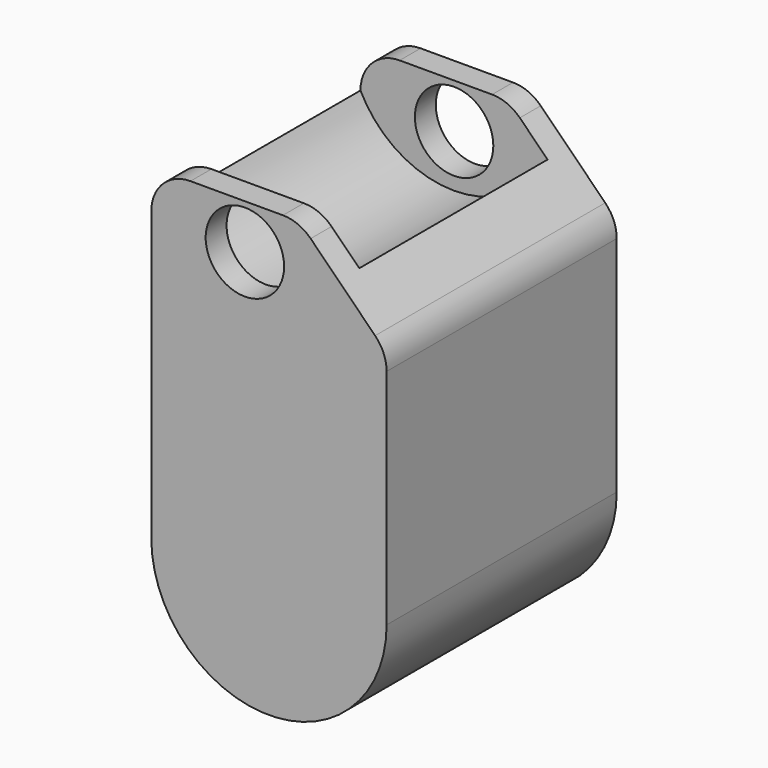
from build123d import *

# Parameters (mm, degrees)
F1_DEPTH = 22
F2_W     = 18
F2_H     = 3
F3_DEPTH = 25
F6_DEPTH = 18
F7_R     = 3
F8_R     = 3
F9_DEPTH = 25


with BuildPart() as f1:
    # F0 (on Front) → F1 (new body)
    with BuildSketch(Plane.XZ):
        with BuildLine():
            ThreePointArc((0, 0), (9, -9), (18, 0))
            Line((18, 0), (18, 18.310677))
            Line((18, 18.310677), (11.310677, 25))
            Line((11.310677, 25), (0, 25))
            Line((0, 25), (0, 0))
        make_face()
    extrude(amount=F1_DEPTH)

    # F2 (on face) → F3 (cut)
    with BuildSketch(Plane(origin=(0, 0, 0), x_dir=(0, -1, 0), z_dir=(-1, 0, 0))):
        with Locations((11, 23.5)):
            Rectangle(F2_W, F2_H)
    extrude(amount=-F3_DEPTH, mode=Mode.SUBTRACT)

    # F5 (on offset) → F6 (cut)
    with BuildSketch(Plane.XZ.offset(2)):
        with BuildLine():
            Line((14.310677, 22), (0, 22))
            ThreePointArc((0, 22), (7.155339, 17.577867), (14.310677, 22))
        make_face()
    extrude(amount=F6_DEPTH, mode=Mode.SUBTRACT)

    # F7
    f7_edges = [f1.edges().sort_by_distance(p)[0] for p in [
        (18, -11, 18.310677),
        (11.310677, -21, 25),
        (11.310677, -1, 25),
        (0, -21, 25),
        (0, -1, 25),
    ]]
    fillet(f7_edges, radius=F7_R)

    # F8 (on face) → F9 (cut)
    with BuildSketch(Plane.XZ.offset(22)):
        with Locations((7.160677, 21.577867)):
            Circle(F8_R)
    extrude(amount=-F9_DEPTH, mode=Mode.SUBTRACT)


solid = f1.part
